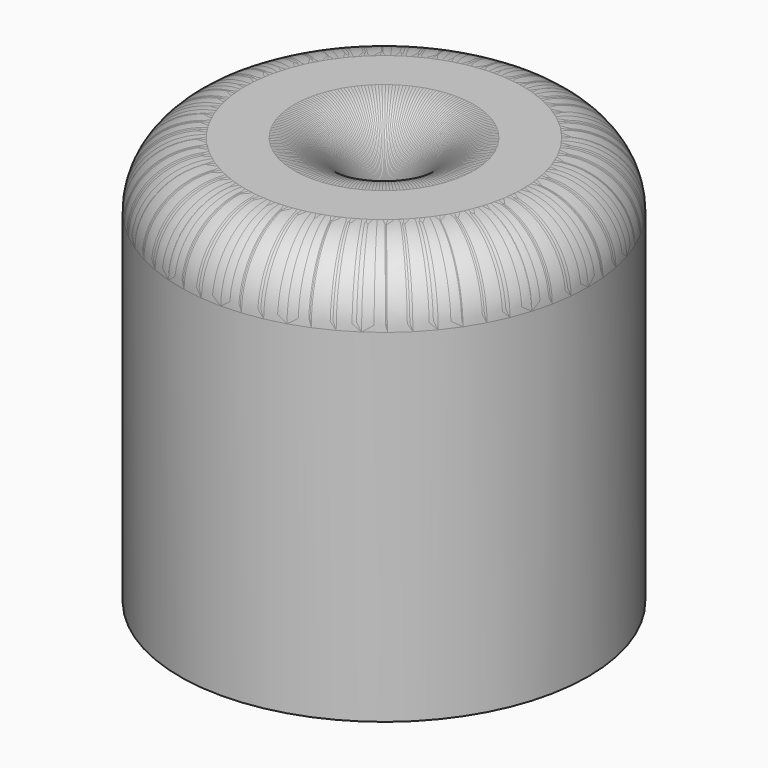
from build123d import *

# Parameters (mm, degrees)
F0_R      = 25
F1_DEPTH  = 50
F2_R      = 3
F3_DEPTH  = 48
F4_R      = 8
F5_T      = -2
F6_R      = 5
F7_DEPTH  = 3
F8_W      = 1
F8_H      = 20.0899352785
F10_COUNT = 4


with BuildPart() as f1:
    # F0 (on Top) → F1 (new body)
    with BuildSketch(Plane.XY):
        Circle(F0_R)
    extrude(amount=F1_DEPTH)

    # F2 (on face) → F3 (cut)
    with BuildSketch(Plane.XY.offset(50)):
        Circle(F2_R)
    extrude(amount=-F3_DEPTH, mode=Mode.SUBTRACT)

    # F4
    f4_edges = [f1.edges().sort_by_distance(p)[0] for p in [
        (-25, 0, 50),
        (-3, 0, 50),
    ]]
    fillet(f4_edges, radius=F4_R)

    # F5
    f5_openings = [f1.faces().sort_by_distance(p)[0] for p in [
        (0, 0, 0),
    ]]
    offset(amount=F5_T, openings=f5_openings, kind=Kind.INTERSECTION)

    # F6 (on face) → F7 (cut)
    with BuildSketch(Plane(origin=(0, 0, 0), x_dir=(1, 0, 0), z_dir=(0, 0, -1))):
        Circle(F6_R)
    extrude(amount=-F7_DEPTH, mode=Mode.SUBTRACT)

    # F8 (on face) → F9 (join, up to the next surface of F1)
    with BuildSketch(Plane(origin=(0, 0, 3), x_dir=(1, 0, 0), z_dir=(0, 0, -1))):
        with Locations((0, -13.8537754538)):
            Rectangle(F8_W, F8_H)
    extrude(until=Until.NEXT, dir=(0, 0, 1))


with BuildPart() as f10_1:
    # F10: instance of F1
    add(f1.part.rotate(Axis((0, 0, 3), (0, 0, 1)), 1 * 360 / F10_COUNT))


with BuildPart() as f10_2:
    # F10: instance of F1
    add(f1.part.rotate(Axis((0, 0, 3), (0, 0, 1)), 2 * 360 / F10_COUNT))


with BuildPart() as f10_3:
    # F10: instance of F1
    add(f1.part.rotate(Axis((0, 0, 3), (0, 0, 1)), 3 * 360 / F10_COUNT))


solid = Compound([f1.part, f10_1.part, f10_2.part, f10_3.part])
